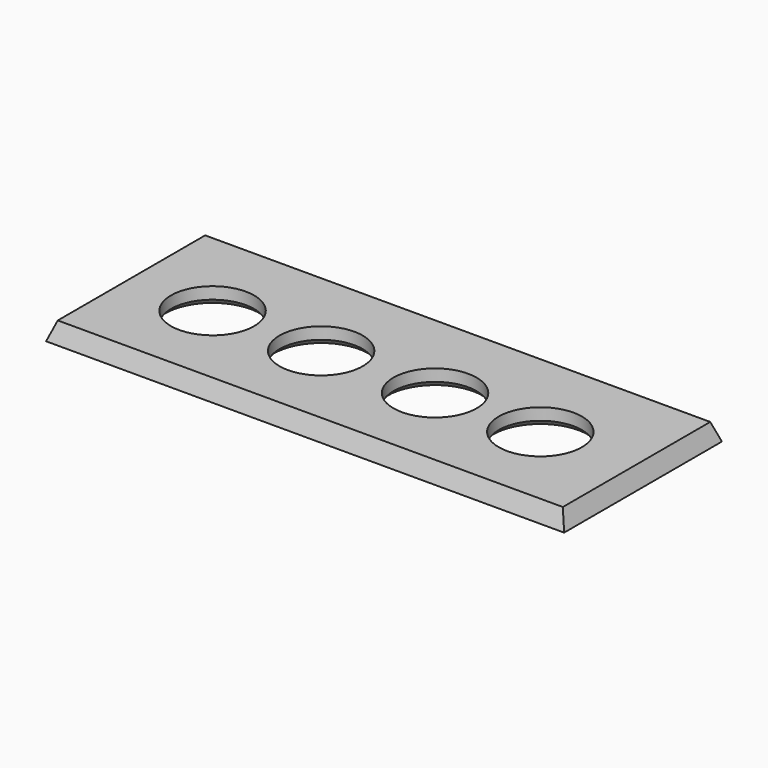
from build123d import *

# Parameters (mm, degrees)
F0_W           = 43.6
F0_H           = 16.6
F1_DEPTH       = 1.5
F1_TAPER       = 20
F2_D           = 7
F2_CSINK_D     = 8
F2_CSINK_ANGLE = 90


with BuildPart() as f1:
    # F0 (on Top) → F1 (new body)
    with BuildSketch(Plane.XY):
        with Locations((-13.4155156434, -3.7059903711)):
            Rectangle(F0_W, F0_H)
    extrude(amount=F1_DEPTH, taper=F1_TAPER)

    # F2 (through all)
    with Locations(Plane(origin=(0, 0, 0), x_dir=(1, 0, 0), z_dir=(0, 0, -1))):
        with Locations((-27.5853313506, 4.0297852829), (-18.4464138001, 4.0297852829), (-8.8595086709, 4.0297852829), (0, 4.0297852829)):
            CounterSinkHole(F2_D / 2, F2_CSINK_D / 2, counter_sink_angle=F2_CSINK_ANGLE)


solid = f1.part
